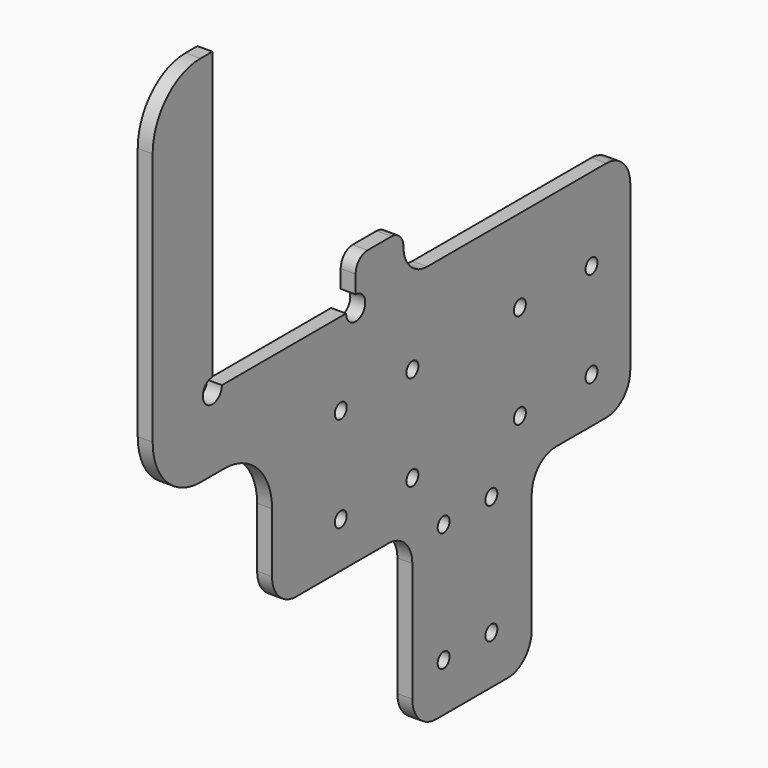
from build123d import *

# Parameters (mm, degrees)
F0_R     = 2.5
F1_DEPTH = 5


with BuildPart() as f1:
    # F0 (on Right) → F1 (new body)
    with BuildSketch(Plane.YZ):
        with BuildLine():
            Line((43.73, -37.5), (65, -37.5))
            ThreePointArc((65, -37.5), (72.071068, -34.571068), (75, -27.5))
            Line((75, -27.5), (75, 27.5))
            ThreePointArc((75, 27.5), (72.071068, 34.571068), (65, 37.5))
            Line((65, 37.5), (-10, 37.5))
            ThreePointArc((-10, 37.5), (-17.071068, 40.428932), (-20, 47.5))
            ThreePointArc((-20, 47.5), (-21.464466, 51.035534), (-25, 52.5))
            Line((-25, 52.5), (-35, 52.5))
            ThreePointArc((-35, 52.5), (-38.535534, 51.035534), (-40, 47.5))
            Line((-40, 47.5), (-40, 41.5))
            ThreePointArc((-40, 41.5), (-37.171573, 34.671573), (-44, 37.5))
            Line((-44, 37.5), (-96, 37.5))
            ThreePointArc((-96, 37.5), (-102.828427, 34.671573), (-100, 41.5))
            Line((-100, 41.5), (-100, 137.5))
            Line((-100, 137.5), (-105, 137.5))
            ThreePointArc((-105, 137.5), (-119.142136, 131.642136), (-125, 117.5))
            Line((-125, 117.5), (-125, 32.5))
            ThreePointArc((-125, 32.5), (-119.142136, 18.357864), (-105, 12.5))
            Line((-105, 12.5), (-95, 12.5))
            ThreePointArc((-95, 12.5), (-80.857864, 6.642136), (-75, -7.5))
            Line((-75, -7.5), (-75, -27.5))
            ThreePointArc((-75, -27.5), (-72.071068, -34.571068), (-65, -37.5))
            Line((-65, -37.5), (-26.27, -37.5))
            ThreePointArc((-26.27, -37.5), (-19.198932, -40.428932), (-16.27, -47.5))
            Line((-16.27, -47.5), (-16.27, -87.5))
            ThreePointArc((-16.27, -87.5), (-13.341068, -94.571068), (-6.27, -97.5))
            Line((-6.27, -97.5), (23.73, -97.5))
            ThreePointArc((23.73, -97.5), (30.801068, -94.571068), (33.73, -87.5))
            Line((33.73, -87.5), (33.73, -47.5))
            ThreePointArc((33.73, -47.5), (36.658932, -40.428932), (43.73, -37.5))
        make_face()
        with Locations((-46.23, -22.27)):
            Circle(F0_R, mode=Mode.SUBTRACT)
        with Locations((-46.23, 9.73)):
            Circle(F0_R, mode=Mode.SUBTRACT)
        with Locations((-3.15, -81.31)):
            Circle(F0_R, mode=Mode.SUBTRACT)
        with Locations((16.85, -81.31)):
            Circle(F0_R, mode=Mode.SUBTRACT)
        with Locations((-3.15, -41.31)):
            Circle(F0_R, mode=Mode.SUBTRACT)
        with Locations((16.85, -41.31)):
            Circle(F0_R, mode=Mode.SUBTRACT)
        with Locations((-16.23, -22.27)):
            Circle(F0_R, mode=Mode.SUBTRACT)
        with Locations((-16.23, 9.73)):
            Circle(F0_R, mode=Mode.SUBTRACT)
        with Locations((28.77, -22.27)):
            Circle(F0_R, mode=Mode.SUBTRACT)
        with Locations((58.77, -22.27)):
            Circle(F0_R, mode=Mode.SUBTRACT)
        with Locations((28.77, 9.73)):
            Circle(F0_R, mode=Mode.SUBTRACT)
        with Locations((58.77, 9.73)):
            Circle(F0_R, mode=Mode.SUBTRACT)
    extrude(amount=F1_DEPTH)


solid = f1.part
